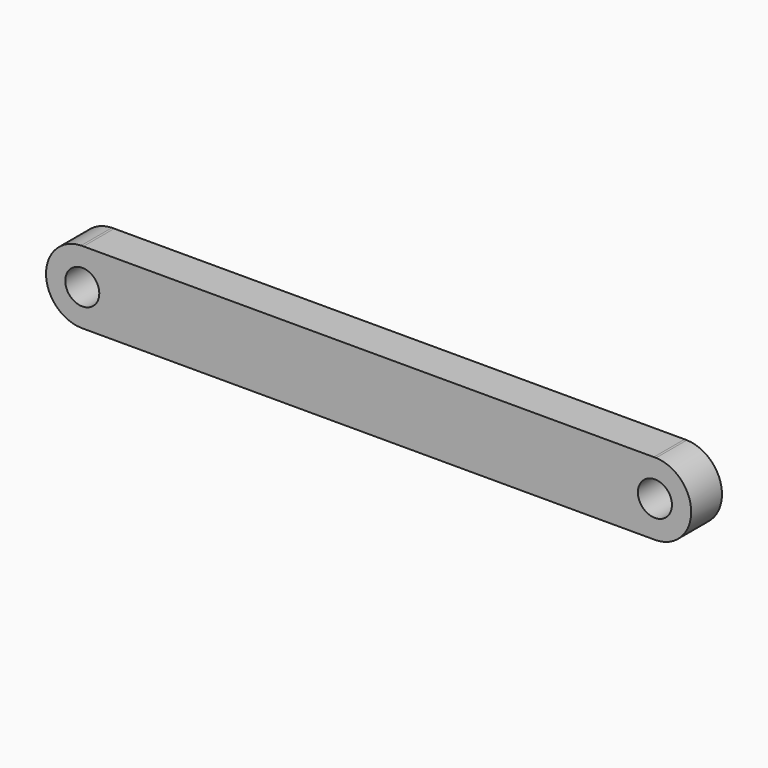
from build123d import *

# Parameters (mm, degrees)
F0_R     = 2.5019
F1_DEPTH = 5.6642


with BuildPart() as f1:
    # F0 (on Front) → F1 (new body)
    with BuildSketch(Plane.XZ):
        with BuildLine():
            ThreePointArc((41.956571, -5.333796), (42.123493, -5.336407), (42.290415, -5.333796))
            Line((42.290415, -5.333796), (41.956571, -5.333796))
        make_face()
        with BuildLine():
            Line((41.956571, -5.333796), (42.290415, -5.333796))
            ThreePointArc((42.290415, -5.333796), (47.4599, 0), (42.290415, 5.333796))
            Line((42.290415, 5.333796), (41.956571, 5.333796))
            Line((41.956571, 5.333796), (-41.956571, 5.333796))
            Line((-41.956571, 5.333796), (-42.290415, 5.333796))
            ThreePointArc((-42.290415, 5.333796), (-47.4599, 0), (-42.290415, -5.333796))
            Line((-42.290415, -5.333796), (-41.956571, -5.333796))
            Line((-41.956571, -5.333796), (41.956571, -5.333796))
        make_face()
        with Locations((-42.123493, 0)):
            Circle(F0_R, mode=Mode.SUBTRACT)
        with Locations((42.123493, 0)):
            Circle(F0_R, mode=Mode.SUBTRACT)
        with BuildLine():
            Line((41.956571, 5.333796), (42.290415, 5.333796))
            ThreePointArc((42.290415, 5.333796), (42.123493, 5.336407), (41.956571, 5.333796))
        make_face()
        with BuildLine():
            ThreePointArc((-42.290415, -5.333796), (-42.123493, -5.336407), (-41.956571, -5.333796))
            Line((-41.956571, -5.333796), (-42.290415, -5.333796))
        make_face()
        with BuildLine():
            Line((-42.290415, 5.333796), (-41.956571, 5.333796))
            ThreePointArc((-41.956571, 5.333796), (-42.123493, 5.336407), (-42.290415, 5.333796))
        make_face()
    extrude(amount=F1_DEPTH)


solid = f1.part
